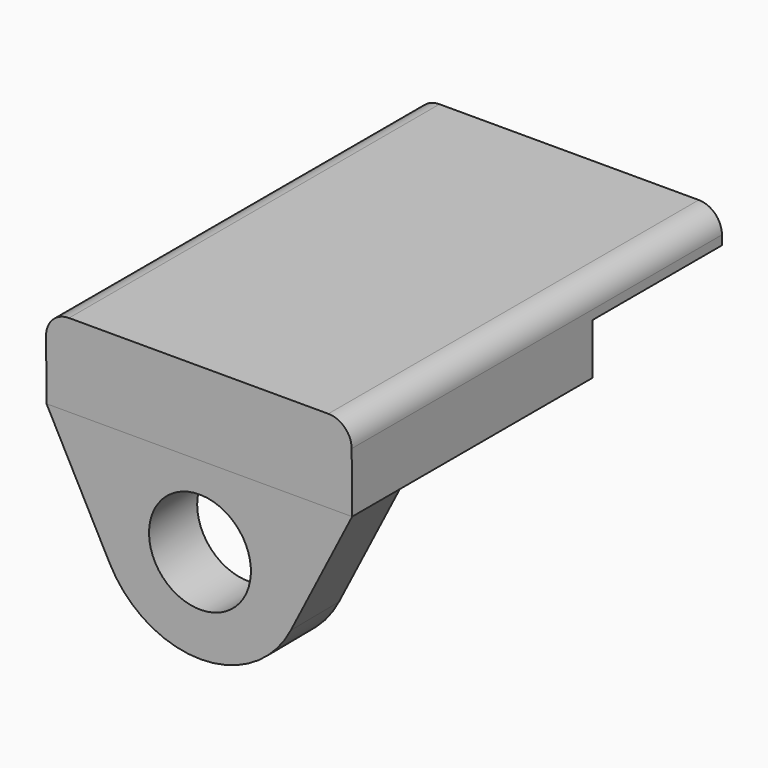
from build123d import *

# Parameters (mm, degrees)
F1_DEPTH = 66
F3_DEPTH = 13
F5_D     = 22
F6_R     = 5


with BuildPart() as f1:
    # F0 (on Right) → F1 (new body)
    with BuildSketch(Plane.YZ):
        Polygon((-54.954562, 1.935452), (9.874931, 1.935452), (9.874931, 12.934644), (44.874931, 12.934644), (44.874931, 19.934644), (-55.125069, 19.934644), align=None)
    extrude(amount=F1_DEPTH)

    # F6
    f6_edges = [f1.edges().sort_by_distance(p)[0] for p in [
        (0, -5.125069, 19.934644),
        (66, -5.125069, 19.934644),
    ]]
    fillet(f6_edges, radius=F6_R)


with BuildPart() as f3:
    # F2 (on face) → F3 (new body)
    with BuildSketch(Plane(origin=(0, -54.931298, -0.520364), x_dir=(1, 0, 0), z_dir=(0, -0.999955, -0.009473))):
        with BuildLine():
            Line((0, 2.455926), (13.445601, -23.625021))
            ThreePointArc((13.445601, -23.625021), (33, -35.544074), (52.554399, -23.625021))
            Line((52.554399, -23.625021), (66, 2.455926))
            Line((66, 2.455926), (0, 2.455926))
        make_face()
    extrude(amount=-F3_DEPTH)

    # F5 (through all)
    with Locations(Plane(origin=(0, -54.931298, -0.520364), x_dir=(1, 0, 0), z_dir=(0, -0.999955, -0.009473))):
        with Locations((33, -15.080847)):
            Hole(F5_D / 2)


solid = Compound([f1.part, f3.part])
